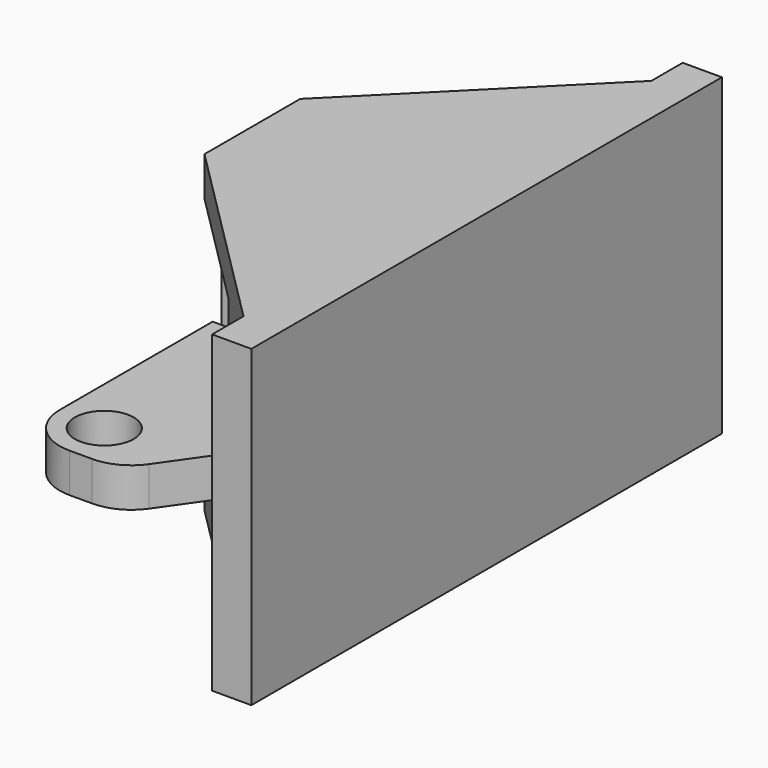
from build123d import *

# Parameters (mm, degrees)
F1_DEPTH      = 8
F1_DEPTH_BACK = 8
F2_W          = 11
F2_H          = 12
F3_DEPTH      = 30.001
F4_R          = 1.5
F5_DEPTH      = 2
F6_R          = 2.5
F8_DEPTH      = 16
F9_W          = 5.021157
F9_H          = 4
F9_W_2        = 1.667027
F10_DEPTH     = 12


with BuildPart() as f1:
    # F0 (on Top) → F1 (new body, two sides)
    with BuildSketch(Plane.XY) as f1_sk:
        Polygon((-5.6634, 11.949274), (6.285874, 0), (6.285874, 30), (-5.6634, 18.050726), align=None)
    extrude(amount=F1_DEPTH)
    extrude(f1_sk.sketch, amount=-F1_DEPTH_BACK)

    # F2 (on Front) → F3 (cut, through all)
    with BuildSketch(Plane.XZ):
        with Locations((-1.214126, 0)):
            Rectangle(F2_W, F2_H)
    extrude(amount=-F3_DEPTH, mode=Mode.SUBTRACT)

    # F4 (on Top) → F5 (join)
    with BuildSketch(Plane.XY):
        Polygon((4.371856, 9.871843), (-3.585968, 9.871843), (-3.585968, -2.374122), (1.36807, -2.374122), (4.371856, 1.914018), align=None)
        with Locations((-1.214126, 0)):
            Circle(F4_R, mode=Mode.SUBTRACT)
        Polygon((-3.585968, 20.128157), (4.371856, 20.128157), (4.371856, 28.085982), (1.36807, 32.374122), (-3.585968, 32.374122), align=None)
        with Locations((-1.214126, 30)):
            Circle(F4_R, mode=Mode.SUBTRACT)
    extrude(amount=F5_DEPTH)

    # F6
    f6_edges = [f1.edges().sort_by_distance(p)[0] for p in [
        (-3.585968, -2.374122, 1),
        (1.36807, -2.374122, 1),
        (-3.585968, 32.374122, 1),
        (1.36807, 32.374122, 1),
    ]]
    fillet(f6_edges, radius=F6_R)

    # F7 (on face) → F8 (join, through all)
    with BuildSketch(Plane.XY.offset(8)):
        Polygon((4.285874, 0), (6.285874, 0), (4.285874, 2), align=None)
        Polygon((4.285874, 28), (6.285874, 30), (4.285874, 30), align=None)
    extrude(amount=-F8_DEPTH)

    # F9 (on face) → F10 (join, through all)
    with BuildSketch(Plane.XY.offset(-6)):
        with Locations((-0.463468, 15)):
            Rectangle(F9_W, F9_H)
        with Locations((-4.812499, 15)):
            Rectangle(F9_W_2, F9_H)
        Polygon((3.246619, 24.120981), (3.246619, 26.960745), (0.406855, 24.120981), align=None)
        Polygon((0.406855, 5.879019), (3.246619, 3.039255), (3.246619, 5.879019), align=None)
    extrude(amount=F10_DEPTH)


solid = f1.part
